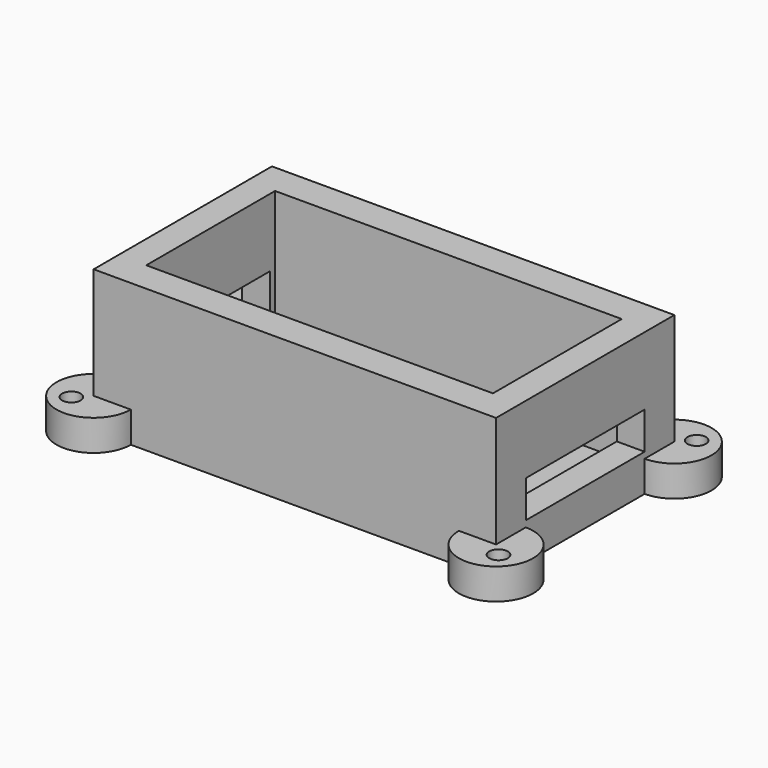
from build123d import *

# Parameters (mm, degrees)
F0_W      = 65
F0_H      = 36
F1_DEPTH  = 23
F2_W      = 56
F2_H      = 26
F3_DEPTH  = 20
F4_R      = 2
F5_DEPTH  = 2
F6_R      = 1.25
F7_DEPTH  = 3
F8_R      = 1.25
F9_DEPTH  = 3
F10_R     = 6
F10_R_2   = 1.5
F11_DEPTH = 5
F12_W     = 24
F12_H     = 6
F13_DEPTH = 100


with BuildPart() as f1:
    # F0 (on Top) → F1 (new body)
    with BuildSketch(Plane.XY):
        Rectangle(F0_W, F0_H)
    extrude(amount=F1_DEPTH)

    # F2 (on face) → F3 (cut)
    with BuildSketch(Plane.XY.offset(23)):
        Rectangle(F2_W, F2_H)
    extrude(amount=-F3_DEPTH, mode=Mode.SUBTRACT)

    # F4 (on face) → F5 (join)
    with BuildSketch(Plane.XY.offset(3)):
        with Locations((-17, 9.5)):
            Circle(F4_R)
        with Locations((16.5, -9.5)):
            Circle(F4_R)
    extrude(amount=F5_DEPTH)

    # F6 (on face) → F7 (cut)
    with BuildSketch(Plane.XY.offset(5)):
        with Locations((-17, 9.5)):
            Circle(F6_R)
    extrude(amount=-F7_DEPTH, mode=Mode.SUBTRACT)

    # F8 (on face) → F9 (cut)
    with BuildSketch(Plane.XY.offset(5)):
        with Locations((16.5, -9.5)):
            Circle(F8_R)
    extrude(amount=-F9_DEPTH, mode=Mode.SUBTRACT)

    # F10 (on face) → F11 (join)
    with BuildSketch(Plane(origin=(0, 0, 0), x_dir=(1, 0, 0), z_dir=(0, 0, -1))):
        with Locations((-32.5, 18)):
            Circle(F10_R)
        with Locations((-34.5, 20)):
            Circle(F10_R_2, mode=Mode.SUBTRACT)
        with Locations((32.5, 18)):
            Circle(F10_R)
        with Locations((34.5, 20)):
            Circle(F10_R_2, mode=Mode.SUBTRACT)
        with Locations((32.5, -18)):
            Circle(F10_R)
        with Locations((34.5, -20)):
            Circle(F10_R_2, mode=Mode.SUBTRACT)
        with Locations((-32.5, -18)):
            Circle(F10_R)
        with Locations((-34.5, -20)):
            Circle(F10_R_2, mode=Mode.SUBTRACT)
    extrude(amount=-F11_DEPTH)

    # F12 (on face) → F13 (cut)
    with BuildSketch(Plane.YZ.offset(32.5)):
        with Locations((0, 9)):
            Rectangle(F12_W, F12_H)
    extrude(amount=-F13_DEPTH, mode=Mode.SUBTRACT)


solid = f1.part
